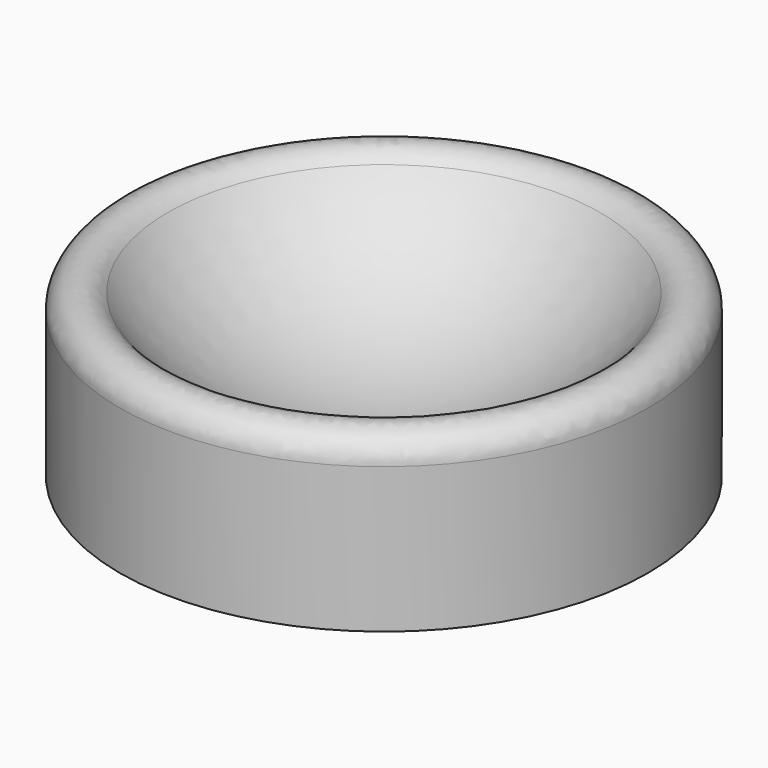
from build123d import *

# Parameters (mm, degrees)
F2_R = 0.5


with BuildPart() as f1:
    # F0 (on Front) → F1 (revolve)
    with BuildSketch(Plane.XZ):
        with BuildLine():
            ThreePointArc((5, 5), (3.201562, 2.123047), (0, 1))
            Line((0, 1), (0, 0))
            Line((0, 0), (5, 0))
            Line((5, 0), (5, 5))
        make_face()
    revolve(axis=Axis((0, 0, 0.5), (0, 0, 1)))

    # F2
    f2_edges = [f1.edges().sort_by_distance(p)[0] for p in [
        (-5, 0, 5),
    ]]
    fillet(f2_edges, radius=F2_R)


solid = f1.part
